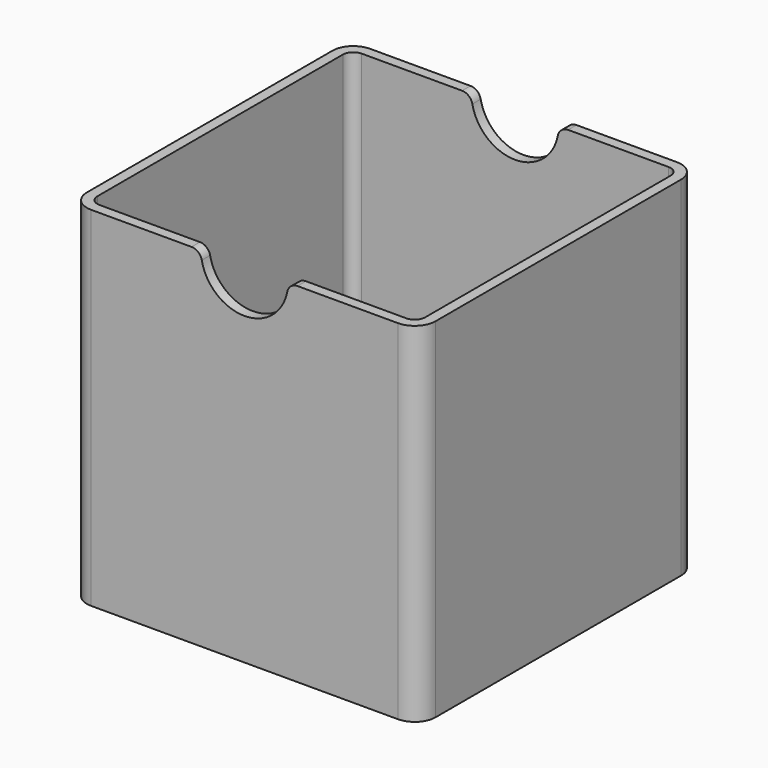
from build123d import *

# Parameters (mm, degrees)
F0_W     = 100
F0_H     = 100
F1_DEPTH = 100
F2_R     = 6
F3_T     = -3
F4_R     = 12.5
F5_DEPTH = 100.001
F6_R     = 3


with BuildPart() as f1:
    # F0 (on Top) → F1 (new body)
    with BuildSketch(Plane.XY):
        Rectangle(F0_W, F0_H)
    extrude(amount=F1_DEPTH)

    # F2
    f2_edges = [f1.edges().sort_by_distance(p)[0] for p in [
        (50, -50, 50),
        (-50, -50, 50),
        (50, 50, 50),
        (-50, 50, 50),
    ]]
    fillet(f2_edges, radius=F2_R)

    # F3
    f3_openings = [f1.faces().sort_by_distance(p)[0] for p in [
        (0, 0, 100),
    ]]
    offset(amount=F3_T, openings=f3_openings)

    # F4 (on face) → F5 (cut, through all)
    with BuildSketch(Plane.XZ.offset(50)):
        with Locations((0, 100)):
            Circle(F4_R)
    extrude(amount=-F5_DEPTH, mode=Mode.SUBTRACT)

    # F6
    f6_edges = [f1.edges().sort_by_distance(p)[0] for p in [
        (-12.5, 48.5, 100),
        (-12.5, -48.5, 100),
        (12.5, -48.5, 100),
        (12.5, 48.5, 100),
    ]]
    fillet(f6_edges, radius=F6_R)


solid = f1.part
